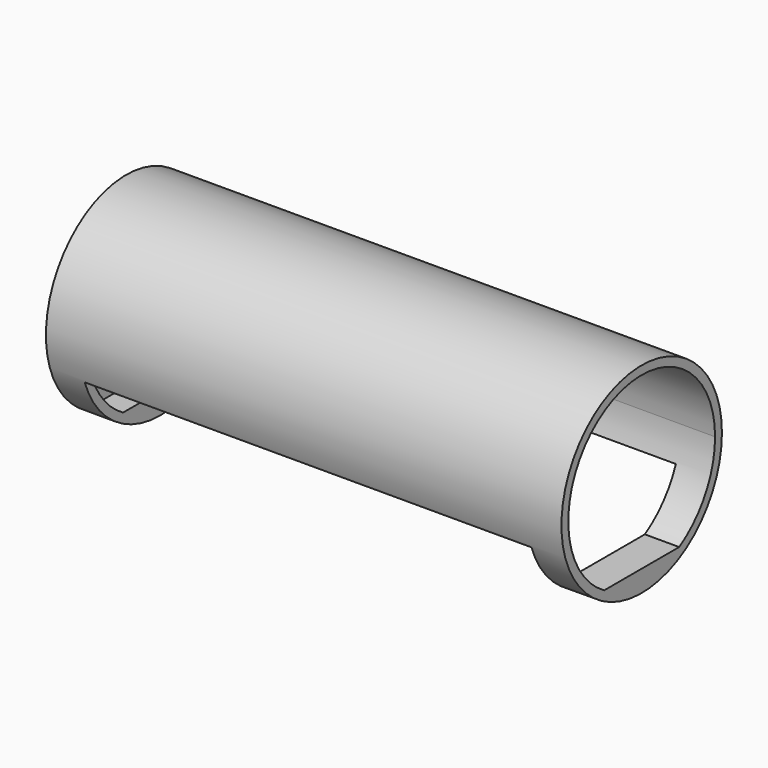
from build123d import *

# Parameters (mm, degrees)
F0_R     = 11.673828125
F1_DEPTH = 60
F3_START = -3.8
F2_W     = 52
F2_H     = 28.3295102417
F3_DEPTH = 9.3
F4_R     = 11.673828125
F5_DEPTH = 1


with BuildPart() as f1:
    # F0 (on Right) → F1 (new body)
    with BuildSketch(Plane.YZ):
        Circle(F0_R)
        with BuildLine():
            ThreePointArc((-5.4563251713, -9.173828125), (-5.2768707474, 9.2782132955), (10.673828125, 0))
            ThreePointArc((10.673828125, 0), (9.2782132955, -5.2768707474), (5.4563251713, -9.173828125))
            ThreePointArc((5.4563251713, -9.173828125), (0, -10.673828125), (-5.4563251713, -9.173828125))
        make_face(mode=Mode.SUBTRACT)
        with BuildLine():
            Line((5.4563251713, -9.173828125), (-5.4563251713, -9.173828125))
            ThreePointArc((-5.4563251713, -9.173828125), (0, -10.673828125), (5.4563251713, -9.173828125))
        make_face()
    extrude(amount=F1_DEPTH)

    # F2 (on Top) → F3 (cut)
    with BuildSketch(Plane.XY.offset(F3_START)):
        with Locations((30, 0)):
            Rectangle(F2_W, F2_H)
    extrude(amount=-F3_DEPTH, mode=Mode.SUBTRACT)

    # F4 (on face) → F5 (join)
    with BuildSketch(Plane.YZ):
        Circle(F4_R)
    extrude(amount=F5_DEPTH)


solid = f1.part
